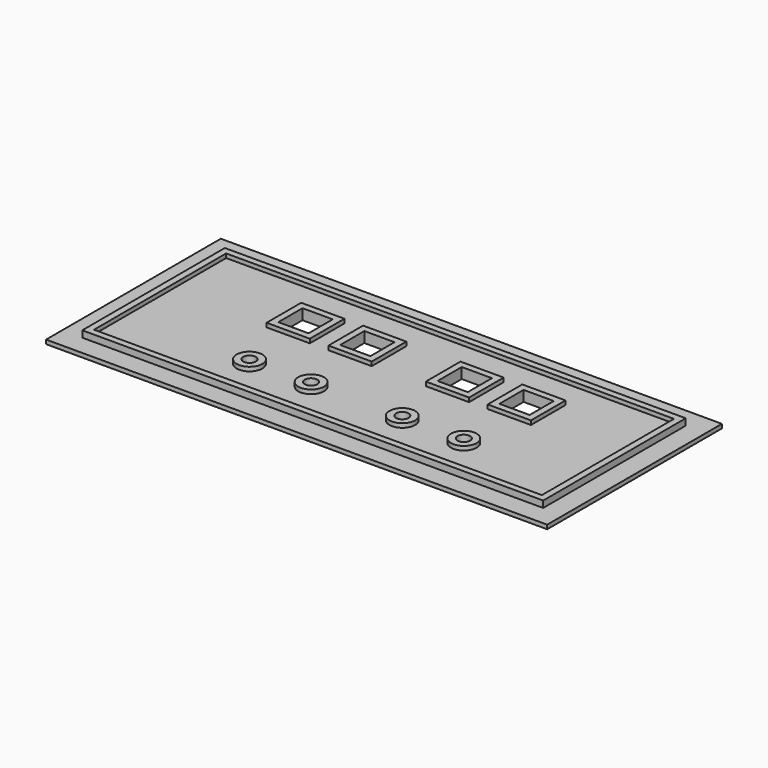
from build123d import *

# Parameters (mm, degrees)
F0_W     = 194.9958
F0_H     = 84.9884
F1_DEPTH = 1.5875
F2_W     = 179.3494
F2_H     = 69.3452
F2_W_2   = 64.45
F2_H_2   = 11.61
F3_DEPTH = 2.54
F4_R     = 2.45
F5_DEPTH = 22.86
F6_W     = 11.75
F6_H     = 11.75
F7_DEPTH = 25.4
F8_T     = -2.54


with BuildPart() as f1:
    # F0 (on Top) → F1 (new body)
    with BuildSketch(Plane.XY):
        Rectangle(F0_W, F0_H)
    extrude(amount=F1_DEPTH)

    # F2 (on face) → F3 (join)
    with BuildSketch(Plane.XY.offset(1.5875)):
        with Locations((0, 0.0016)):
            Rectangle(F2_W, F2_H)
        with Locations((-49.5541132987, 20.0935862262)):
            Rectangle(F2_W_2, F2_H_2, mode=Mode.SUBTRACT)
        with Locations((0, 0.0016)):
            Rectangle(F2_W, F2_H)
        with Locations((-49.5541132987, 20.0935862262)):
            Rectangle(F2_W_2, F2_H_2, mode=Mode.SUBTRACT)
        with Locations((-49.5541132987, 20.0935862262)):
            Rectangle(F2_W_2, F2_H_2)
    extrude(amount=F3_DEPTH)

    # F4 (on face) → F5 (cut)
    with BuildSketch(Plane(origin=(0, 0, 0), x_dir=(1, 0, 0), z_dir=(0, 0, -1))):
        with Locations((-38.0999999963, 17.779997108)):
            Circle(F4_R)
        with Locations((45.2885175493, 17.780080176)):
            Circle(F4_R)
        with Locations((21.3446233022, 17.7799198239)):
            Circle(F4_R)
        with Locations((-14.1500980391, 17.780002892)):
            Circle(F4_R)
    extrude(amount=-F5_DEPTH, mode=Mode.SUBTRACT)

    # F6 (on face) → F7 (cut)
    with BuildSketch(Plane.XY.offset(4.1275)):
        with Locations((45.4056928721, 12.6071161675)):
            Rectangle(F6_W, F6_H)
        with Locations((21.3366928721, 12.610067341)):
            Rectangle(F6_W, F6_H)
        with Locations((-16.5584006092, 12.610067341)):
            Rectangle(F6_W, F6_H)
        with Locations((-40.6274006092, 12.610067341)):
            Rectangle(F6_W, F6_H)
    extrude(amount=-F7_DEPTH, mode=Mode.SUBTRACT)

    # F8
    f8_openings = [f1.faces().sort_by_distance(p)[0] for p in [
        (-0.134693, -0.47441, 4.1275),
    ]]
    offset(amount=F8_T, openings=f8_openings, kind=Kind.INTERSECTION)


solid = f1.part
